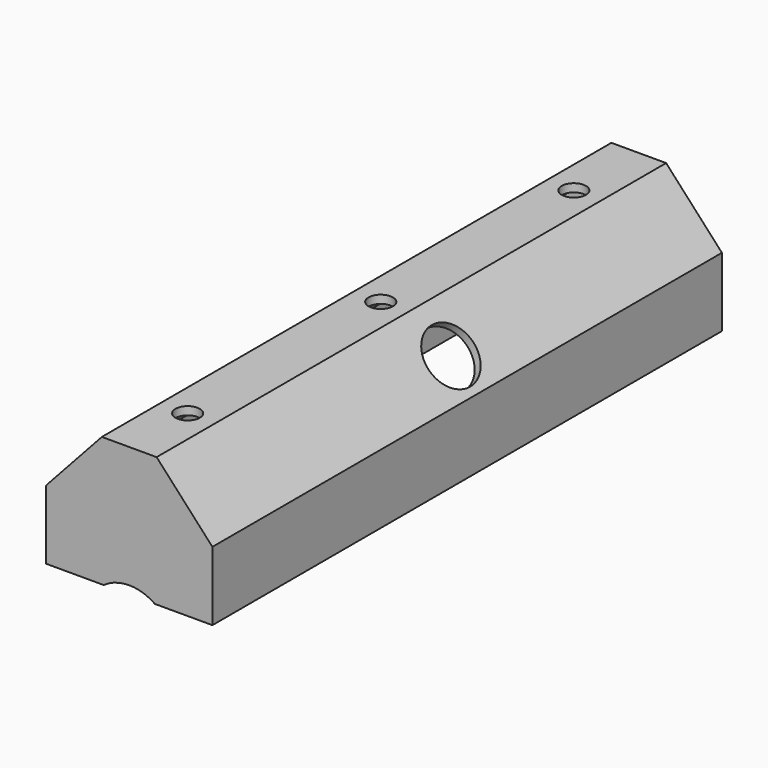
from build123d import *

# Parameters (mm, degrees)
F1_DEPTH = 157
F2_T     = -2
F3_R     = 11
F4_DEPTH = 157
F6_D     = 6
F7_R     = 7
F8_DEPTH = 3


with BuildPart() as f1:
    # F0 (on Front) → F1 (new body)
    with BuildSketch(Plane.XZ):
        Polygon((-20.5, 17), (-20.5, 0), (0, 0), (20.5, 0), (20.5, 17), (6.75, 32), (0, 32), (-6.75, 32), align=None)
    extrude(amount=-F1_DEPTH)

    # F2
    f2_openings = [f1.faces().sort_by_distance(p)[0] for p in [
        (0, 78.5, 0),
    ]]
    offset(amount=F2_T, openings=f2_openings)

    # F3 (on Front) → F4 (cut)
    with BuildSketch(Plane.XZ):
        with Locations((0, -9)):
            Circle(F3_R)
    extrude(amount=-F4_DEPTH, mode=Mode.SUBTRACT)

    # F6 (through all)
    with Locations(Plane(origin=(0, 0, 30), x_dir=(1, 0, 0), z_dir=(0, 0, -1))):
        with Locations((0, -18), (0, -77.5), (0, -137)):
            Hole(F6_D / 2)

    # F7 (on face) → F8 (cut)
    with BuildSketch(Plane(origin=(19.6075471698, 0, 17.9735849057), x_dir=(0, 1, 0), z_dir=(0.7371541402, 0, 0.6757246285))):
        with Locations((81.0107703245, 7.5740857882)):
            Circle(F7_R)
    extrude(amount=-F8_DEPTH, mode=Mode.SUBTRACT)


solid = f1.part
